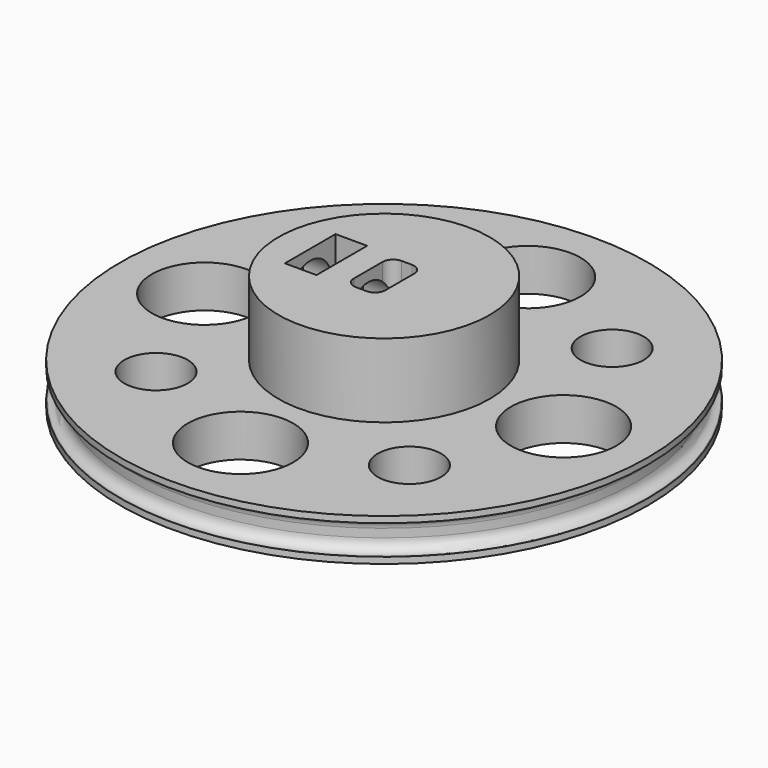
from build123d import *

# Parameters (mm, degrees)
CYLINDER011_R     = 23.9
CYLINDER011_DEPTH = 2.8
CYLINDER010_R     = 25
CYLINDER010_DEPTH = 2.8
CYLINDER009_R     = 3
CYLINDER009_DEPTH = 10
CYLINDER002_R     = 5
CYLINDER002_DEPTH = 15
CYLINDER008_R     = 3
CYLINDER008_DEPTH = 10
CYLINDER005_R     = 5
CYLINDER005_DEPTH = 15
CYLINDER006_R     = 3
CYLINDER006_DEPTH = 10
CYLINDER003_R     = 5
CYLINDER003_DEPTH = 15
CYLINDER007_R     = 3
CYLINDER007_DEPTH = 10
CYLINDER004_R     = 5
CYLINDER004_DEPTH = 15
CYLINDER_R        = 25
CYLINDER_DEPTH    = 4
FILLET_R          = 1
CYLINDER013_R     = 2.5
CYLINDER013_DEPTH = 15
BOX_W             = 3
BOX_H             = 5.4
BOX_DEPTH         = 15
FILLET001_R       = 1
BOX001_W          = 3
BOX001_H          = 6
BOX001_DEPTH      = 15
CYLINDER012_R     = 10
CYLINDER012_DEPTH = 10


with BuildPart() as cilindro011:
    # Cylinder011 → Cylinder011 (new body)
    with BuildSketch(Plane.XY.offset(0.6)):
        Circle(CYLINDER011_R)
    extrude(amount=CYLINDER011_DEPTH)


with BuildPart() as cut008:
    # Cylinder010 → Cylinder010 (new body)
    with BuildSketch(Plane.XY.offset(0.6)):
        Circle(CYLINDER010_R)
    extrude(amount=CYLINDER010_DEPTH)

    # Cut008: cut Cilindro011
    add(cilindro011.part, mode=Mode.SUBTRACT)


with BuildPart() as cilindro009:
    # Cylinder009 → Cylinder009 (new body)
    with BuildSketch(Plane(origin=(12, 12, -2), x_dir=(1, 0, 0), z_dir=(0, 0, 1))):
        Circle(CYLINDER009_R)
    extrude(amount=CYLINDER009_DEPTH)


with BuildPart() as cilindro002:
    # Cylinder002 → Cylinder002 (new body)
    with BuildSketch(Plane(origin=(17, 0, -2), x_dir=(1, 0, 0), z_dir=(0, 0, 1))):
        Circle(CYLINDER002_R)
    extrude(amount=CYLINDER002_DEPTH)


with BuildPart() as cilindro008:
    # Cylinder008 → Cylinder008 (new body)
    with BuildSketch(Plane(origin=(12, -12, -2), x_dir=(1, 0, 0), z_dir=(0, 0, 1))):
        Circle(CYLINDER008_R)
    extrude(amount=CYLINDER008_DEPTH)


with BuildPart() as cilindro005:
    # Cylinder005 → Cylinder005 (new body)
    with BuildSketch(Plane(origin=(0, -17, -2), x_dir=(1, 0, 0), z_dir=(0, 0, 1))):
        Circle(CYLINDER005_R)
    extrude(amount=CYLINDER005_DEPTH)


with BuildPart() as cilindro006:
    # Cylinder006 → Cylinder006 (new body)
    with BuildSketch(Plane(origin=(-12, -12, -2), x_dir=(1, 0, 0), z_dir=(0, 0, 1))):
        Circle(CYLINDER006_R)
    extrude(amount=CYLINDER006_DEPTH)


with BuildPart() as cilindro003:
    # Cylinder003 → Cylinder003 (new body)
    with BuildSketch(Plane(origin=(-17, 0, -2), x_dir=(1, 0, 0), z_dir=(0, 0, 1))):
        Circle(CYLINDER003_R)
    extrude(amount=CYLINDER003_DEPTH)


with BuildPart() as cilindro007:
    # Cylinder007 → Cylinder007 (new body)
    with BuildSketch(Plane(origin=(-12, 12, -2), x_dir=(1, 0, 0), z_dir=(0, 0, 1))):
        Circle(CYLINDER007_R)
    extrude(amount=CYLINDER007_DEPTH)


with BuildPart() as cilindro004:
    # Cylinder004 → Cylinder004 (new body)
    with BuildSketch(Plane(origin=(0, 17, -2), x_dir=(1, 0, 0), z_dir=(0, 0, 1))):
        Circle(CYLINDER004_R)
    extrude(amount=CYLINDER004_DEPTH)


with BuildPart() as fillet_body:
    # Cylinder → Cylinder (new body)
    with BuildSketch(Plane.XY):
        Circle(CYLINDER_R)
    extrude(amount=CYLINDER_DEPTH)

    # Cut: cut Cilindro004
    add(cilindro004.part, mode=Mode.SUBTRACT)

    # Cut001: cut Cilindro007
    add(cilindro007.part, mode=Mode.SUBTRACT)

    # Cut002: cut Cilindro003
    add(cilindro003.part, mode=Mode.SUBTRACT)

    # Cut003: cut Cilindro006
    add(cilindro006.part, mode=Mode.SUBTRACT)

    # Cut004: cut Cilindro005
    add(cilindro005.part, mode=Mode.SUBTRACT)

    # Cut005: cut Cilindro008
    add(cilindro008.part, mode=Mode.SUBTRACT)

    # Cut006: cut Cilindro002
    add(cilindro002.part, mode=Mode.SUBTRACT)

    # Cut007: cut Cilindro009
    add(cilindro009.part, mode=Mode.SUBTRACT)

    # Cut009: cut Cut008
    add(cut008.part, mode=Mode.SUBTRACT)

    # Fillet
    fillet_edges = [fillet_body.edges().sort_by_distance(p)[0] for p in [
        (-23.9, 0, 3.4),
        (-23.9, 0, 0.6),
    ]]
    fillet(fillet_edges, radius=FILLET_R)


with BuildPart() as cilindro013:
    # Cylinder013 → Cylinder013 (new body)
    with BuildSketch(Plane(origin=(-15, 0, 6.5), x_dir=(0, 0, -1), z_dir=(1, 0, 0))):
        Circle(CYLINDER013_R)
    extrude(amount=CYLINDER013_DEPTH)


with BuildPart() as fillet001:
    # Box → Box (new body)
    with BuildSketch(Plane(origin=(-1.5, -2.7, 0.6), x_dir=(1, 0, 0), z_dir=(0, 0, 1))):
        with Locations((1.5, 2.7)):
            Rectangle(BOX_W, BOX_H)
    extrude(amount=BOX_DEPTH)

    # Fillet001
    fillet001_edges = [fillet001.edges().sort_by_distance(p)[0] for p in [
        (-1.5, -2.7, 8.1),
        (-1.5, 2.7, 8.1),
        (1.5, -2.7, 8.1),
        (1.5, 2.7, 8.1),
        (0, -2.7, 0.6),
        (0, -2.7, 15.6),
        (0, 2.7, 0.6),
        (0, 2.7, 15.6),
    ]]
    fillet(fillet001_edges, radius=FILLET001_R)


with BuildPart() as cubo001:
    # Box001 → Box001 (new body)
    with BuildSketch(Plane(origin=(-7, -3, 2.5), x_dir=(1, 0, 0), z_dir=(0, 0, 1))):
        with Locations((1.5, 3)):
            Rectangle(BOX001_W, BOX001_H)
    extrude(amount=BOX001_DEPTH)


with BuildPart() as cut012:
    # Cylinder012 → Cylinder012 (new body)
    with BuildSketch(Plane.XY):
        Circle(CYLINDER012_R)
    extrude(amount=CYLINDER012_DEPTH)

    # Cut010: cut Cubo001
    add(cubo001.part, mode=Mode.SUBTRACT)

    # Cut011: cut Fillet001
    add(fillet001.part, mode=Mode.SUBTRACT)

    # Cut012: cut Cilindro013
    add(cilindro013.part, mode=Mode.SUBTRACT)


with BuildPart() as cut012_1:
    # Cut012 placement: moved
    add(cut012.part.moved(Location((0, 0, 1))))


solid = Compound([fillet_body.part, cut012_1.part])
